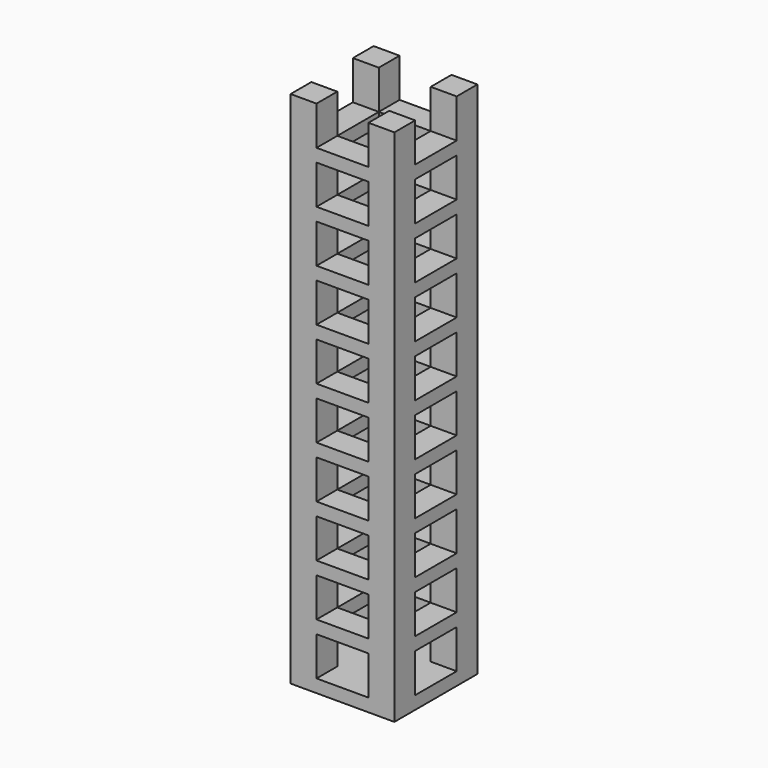
from build123d import *

# Parameters (mm, degrees)
F0_W     = 40
F0_H     = 40
F1_DEPTH = 200
F2_W     = 20
F2_H     = 15
F3_DEPTH = 40.001
F4_W     = 20
F4_H     = 15
F5_DEPTH = 40.001
F6_W     = 20
F6_H     = 20
F7_DEPTH = 195.001


with BuildPart() as f1:
    # F0 (on Top) → F1 (new body)
    with BuildSketch(Plane.XY):
        Rectangle(F0_W, F0_H)
    extrude(amount=F1_DEPTH)

    # F2 (on face) → F3 (cut, through all)
    with BuildSketch(Plane.YZ.offset(20)):
        with Locations((0, 12.5)):
            Rectangle(F2_W, F2_H)
        with Locations((0, 32.5)):
            Rectangle(F2_W, F2_H)
        with Locations((0, 52.5)):
            Rectangle(F2_W, F2_H)
        with Locations((0, 72.5)):
            Rectangle(F2_W, F2_H)
        with Locations((0, 92.5)):
            Rectangle(F2_W, F2_H)
        with Locations((0, 112.5)):
            Rectangle(F2_W, F2_H)
        with Locations((0, 132.5)):
            Rectangle(F2_W, F2_H)
        with Locations((0, 152.5)):
            Rectangle(F2_W, F2_H)
        with Locations((0, 172.5)):
            Rectangle(F2_W, F2_H)
        with Locations((0, 192.5)):
            Rectangle(F2_W, F2_H)
    extrude(amount=-F3_DEPTH, mode=Mode.SUBTRACT)

    # F4 (on face) → F5 (cut, through all)
    with BuildSketch(Plane.XZ.offset(20)):
        with Locations((0, 12.5)):
            Rectangle(F4_W, F4_H)
        with Locations((0, 32.5)):
            Rectangle(F4_W, F4_H)
        with Locations((0, 52.5)):
            Rectangle(F4_W, F4_H)
        with Locations((0, 72.5)):
            Rectangle(F4_W, F4_H)
        with Locations((0, 92.5)):
            Rectangle(F4_W, F4_H)
        with Locations((0, 112.5)):
            Rectangle(F4_W, F4_H)
        with Locations((0, 132.5)):
            Rectangle(F4_W, F4_H)
        with Locations((0, 152.5)):
            Rectangle(F4_W, F4_H)
        with Locations((0, 172.5)):
            Rectangle(F4_W, F4_H)
        with Locations((0, 192.5)):
            Rectangle(F4_W, F4_H)
    extrude(amount=-F5_DEPTH, mode=Mode.SUBTRACT)

    # F6 (on face) → F7 (cut, through all)
    with BuildSketch(Plane.XY.offset(5)):
        Rectangle(F6_W, F6_H)
    extrude(amount=F7_DEPTH, mode=Mode.SUBTRACT)


solid = f1.part
